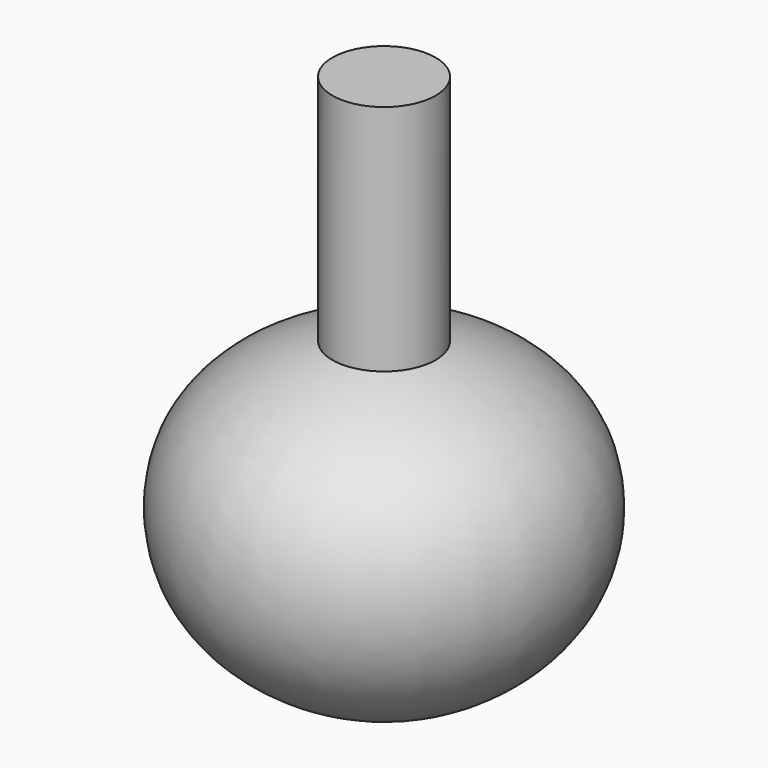
from build123d import *


with BuildPart() as f1:
    # F0 (on Front) → F1 (revolve)
    with BuildSketch(Plane.XZ):
        with BuildLine():
            Line((0, 125), (0, 0))
            Line((0, 0), (12, 0))
            add(Edge.make_bspline(
                [(12, 70.8505362272), (34.2867150903, 64.6453648806), (52.1697582644, 38.9474996548), (35.8380004764, 8.0233709887), (12, 0)],
                knots=[0, 0, 0, 0, 0.4888170079, 1, 1, 1, 1], degree=3))
            Line((12, 70.8505362272), (12, 125))
            Line((12, 125), (0, 125))
        make_face()
    revolve(axis=Axis((0, 0, 62.5), (0, 0, 1)))


solid = f1.part
